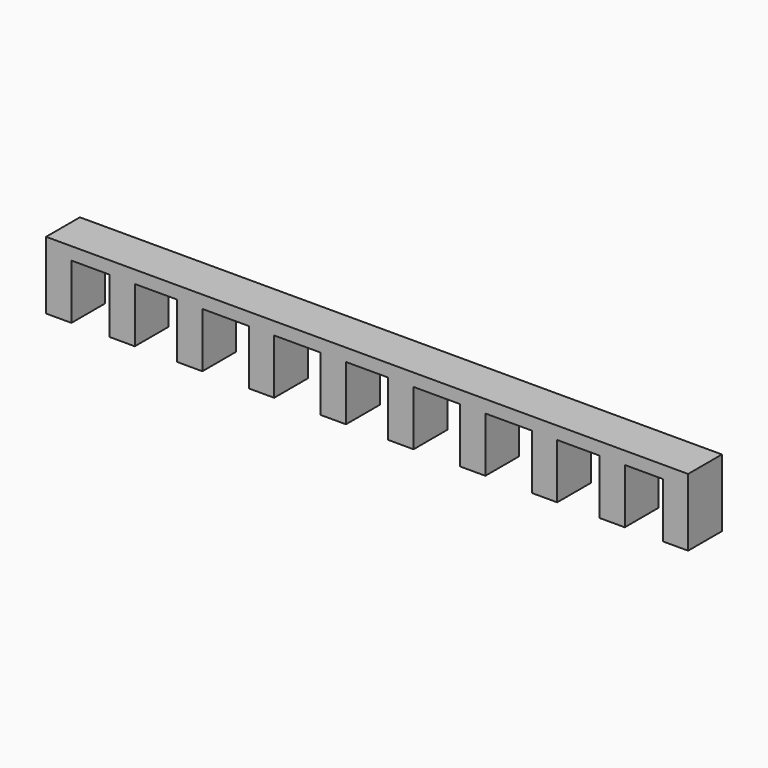
from build123d import *

# Parameters (mm, degrees)
F0_W     = 760
F0_H     = 80
F1_DEPTH = 50
F2_W     = 45
F2_H     = 65
F2_W_2   = 50
F2_W_3   = 55
F3_DEPTH = 50


with BuildPart() as f1:
    # F0 (on Front) → F1 (new body)
    with BuildSketch(Plane.XZ):
        with Locations((-24.780855, -40)):
            Rectangle(F0_W, F0_H)
    extrude(amount=F1_DEPTH)

    # F2 (on face) → F3 (cut)
    with BuildSketch(Plane.XZ.offset(50)):
        with Locations((-352.280855, -47.5)):
            Rectangle(F2_W, F2_H)
        with Locations((-274.780855, -47.5)):
            Rectangle(F2_W_2, F2_H)
        with Locations((-192.280855, -47.5)):
            Rectangle(F2_W_3, F2_H)
        with Locations((-107.280855, -47.5)):
            Rectangle(F2_W_3, F2_H)
        with Locations((-24.780855, -47.5)):
            Rectangle(F2_W_2, F2_H)
        with Locations((57.719145, -47.5)):
            Rectangle(F2_W_3, F2_H)
        with Locations((142.719145, -47.5)):
            Rectangle(F2_W_3, F2_H)
        with Locations((225.219145, -47.5)):
            Rectangle(F2_W_2, F2_H)
        with Locations((302.719145, -47.5)):
            Rectangle(F2_W, F2_H)
    extrude(amount=-F3_DEPTH, mode=Mode.SUBTRACT)


solid = f1.part
